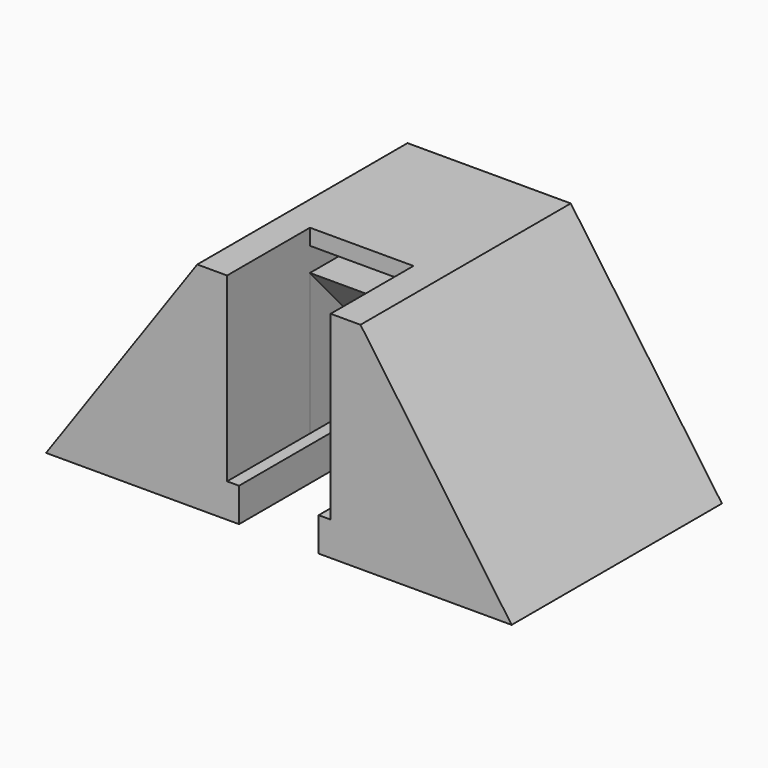
from build123d import *

# Parameters (mm, degrees)
F0_W      = 58.45
F0_H      = 33
F1_DEPTH  = 27
F3_DEPTH  = 33.001
F4_W      = 10
F4_H      = 8.67
F5_DEPTH  = 33.001
F6_W      = 13
F6_H      = 22.75
F7_DEPTH  = 13
F8_W      = 13
F8_H      = 3
F9_DEPTH  = 5
F11_DEPTH = 6.5


with BuildPart() as f1:
    # F0 (on Top) → F1 (new body)
    with BuildSketch(Plane.XY):
        Rectangle(F0_W, F0_H)
    extrude(amount=F1_DEPTH)

    # F2 (on face) → F3 (cut, through all)
    with BuildSketch(Plane.XZ.offset(16.5)):
        Polygon((-29.225, 27), (-29.225, 0), (-10.249082, 27), align=None)
        Polygon((10.249082, 27), (29.225, 0), (29.225, 27), align=None)
    extrude(amount=-F3_DEPTH, mode=Mode.SUBTRACT)

    # F4 (on face) → F5 (cut, through all)
    with BuildSketch(Plane.XZ.offset(16.5)):
        with Locations((0, 4.335)):
            Rectangle(F4_W, F4_H)
    extrude(amount=-F5_DEPTH, mode=Mode.SUBTRACT)

    # F6 (on face) → F7 (cut)
    with BuildSketch(Plane.XZ.offset(16.5)):
        with Locations((0.000217, 15.625)):
            Rectangle(F6_W, F6_H)
    extrude(amount=-F7_DEPTH, mode=Mode.SUBTRACT)

    # F8 (on face) → F9 (cut)
    with BuildSketch(Plane.XZ.offset(3.5)):
        with Locations((0.000217, 23.5)):
            Rectangle(F8_W, F8_H)
    extrude(amount=-F9_DEPTH, mode=Mode.SUBTRACT)

    # F10 (on Right) → F11 (cut, symmetric)
    with BuildSketch(Plane.YZ):
        Polygon((8.41, 8.67), (-3.5, 22), (-3.5, 4.25), (8.41, 4.25), align=None)
    extrude(amount=F11_DEPTH, both=True, mode=Mode.SUBTRACT)


solid = f1.part
